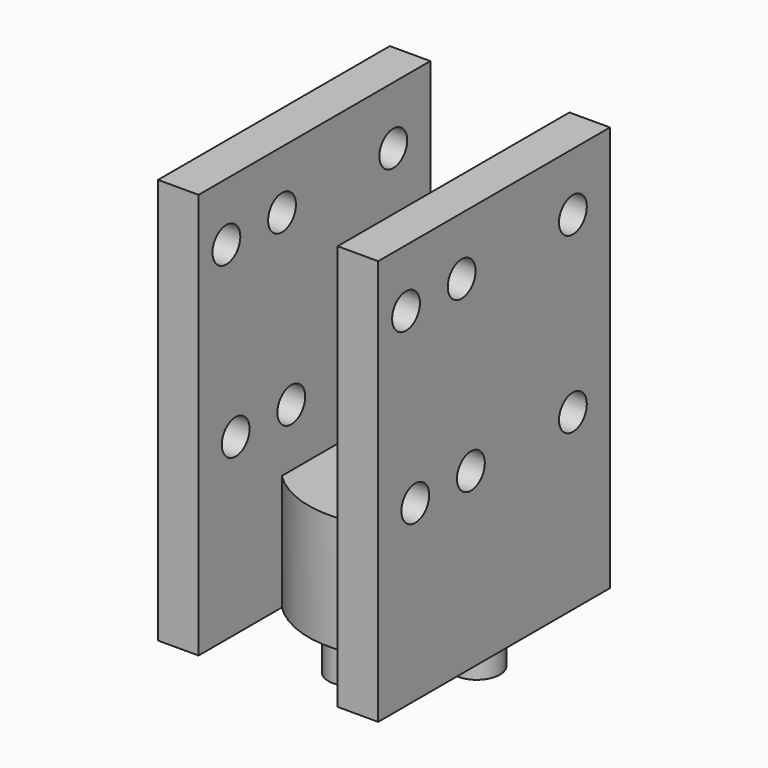
from build123d import *

# Parameters (mm, degrees)
SKETCH_R          = 8.5
SKETCH_R_2        = 1.5
PAD_DEPTH         = 10
SKETCH001_R       = 2
PAD001_DEPTH      = 3
SKETCH002_W       = 3.5
SKETCH002_H       = 25
PAD002_DEPTH      = 25
PAD002_DEPTH_BACK = 10
SKETCH003_R       = 1.5
POCKET_DEPTH      = 19.001


with BuildPart() as part:
    # Sketch → Pad (new body)
    with BuildSketch(Plane.XY):
        Circle(SKETCH_R)
        Circle(SKETCH_R_2, mode=Mode.SUBTRACT)
    extrude(amount=PAD_DEPTH)

    # Sketch001 → Pad001 (new body)
    with BuildSketch(Plane(origin=(0, 0, 0), x_dir=(1, 0, 0), z_dir=(0, 0, -1))):
        with Locations((0, -6)):
            Circle(SKETCH001_R)
        with Locations((6, 0)):
            Circle(SKETCH001_R)
        with Locations((0, 6)):
            Circle(SKETCH001_R)
        with Locations((-6, 0)):
            Circle(SKETCH001_R)
    extrude(amount=PAD001_DEPTH)

    # Sketch002 → Pad002 (new body, two sides)
    with BuildSketch(Plane.XY.offset(10)) as pad002_sk:
        with Locations((-7.75, -2.5)):
            Rectangle(SKETCH002_W, SKETCH002_H)
        with Locations((7.75, -2.5)):
            Rectangle(SKETCH002_W, SKETCH002_H)
    extrude(amount=PAD002_DEPTH)
    extrude(pad002_sk.sketch, amount=-PAD002_DEPTH_BACK)

    # Sketch003 → Pocket (cut, through all)
    with BuildSketch(Plane.YZ.offset(9.5)):
        with Locations((-11, 15)):
            Circle(SKETCH003_R)
        with Locations((-5, 15)):
            Circle(SKETCH003_R)
        with Locations((-12, 30)):
            Circle(SKETCH003_R)
        with Locations((-6, 30)):
            Circle(SKETCH003_R)
        with Locations((6, 30)):
            Circle(SKETCH003_R)
        with Locations((6, 15)):
            Circle(SKETCH003_R)
    extrude(amount=-POCKET_DEPTH, mode=Mode.SUBTRACT)


solid = part.part
